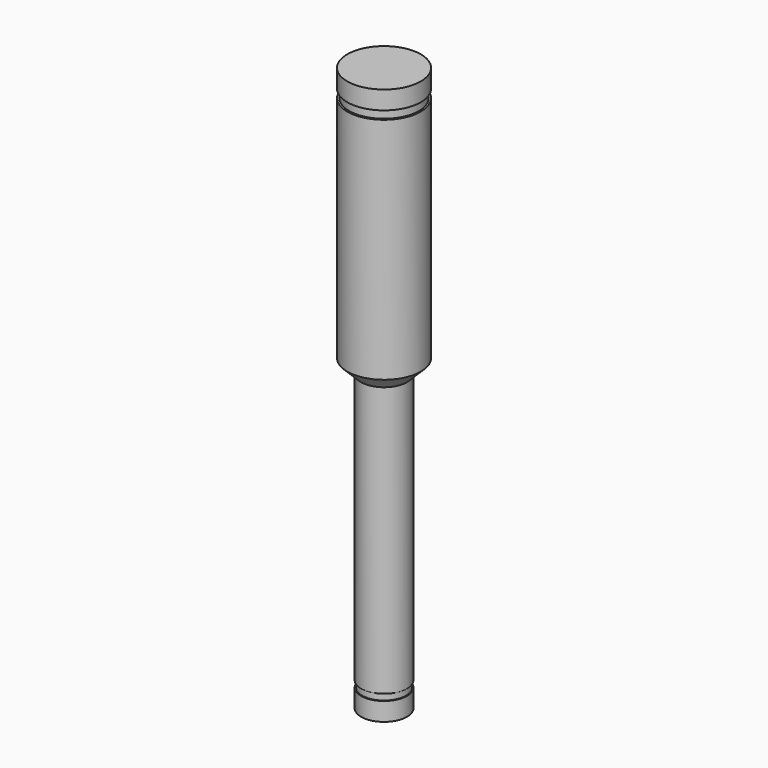
from build123d import *

# Parameters (mm, degrees)
F0_R     = 4
F1_DEPTH = 200


with BuildPart() as f1:
    # F0 (on Top) → F1 (new body)
    with BuildSketch(Plane.XY):
        Circle(F0_R)
    extrude(amount=F1_DEPTH)

    # F2 (on Front) → F3 (revolve, cut)
    with BuildSketch(Plane.XZ):
        Polygon((2.5, 2), (2.5, 0), (4, 0), (4, 33.55), (2.5, 32.05), (2.5, 2.7), (2.4, 2.7), (2.4, 2), align=None)
    revolve(axis=Axis((0, 0, 16.025), (0, 0, 1)), mode=Mode.SUBTRACT)

    # F4 (on Front) → F5 (revolve, cut)
    with BuildSketch(Plane.XZ):
        Polygon((0, 200), (0, 61.35), (4, 61.35), (4, 59.35), (3.8, 59.35), (3.8, 58.45), (4, 58.45), (6.54, 58.45), (6.54, 63.53), (4, 63.53), (4, 200), align=None)
    revolve(axis=Axis((0, 0, 130.675), (0, 0, 1)), mode=Mode.SUBTRACT)


solid = f1.part
